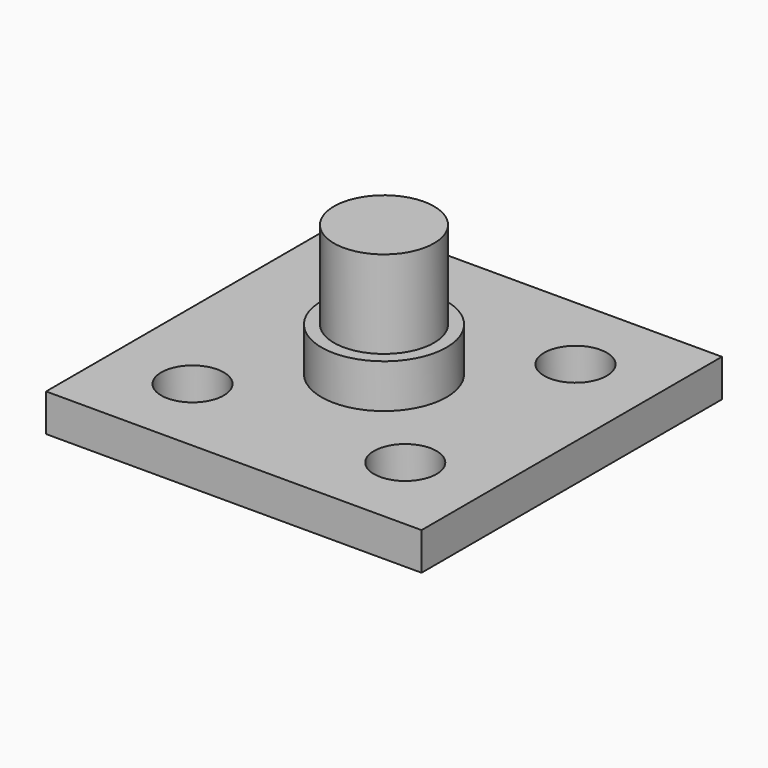
from build123d import *

# Parameters (mm, degrees)
F0_W     = 30
F0_H     = 30
F0_R     = 5
F1_DEPTH = 3
F0_R_2   = 4
F2_DEPTH = 6.5
F3_DEPTH = 13.5
F5_D     = 5


with BuildPart() as f1:
    # F0 (on Top) → F1 (new body)
    with BuildSketch(Plane.XY):
        Rectangle(F0_W, F0_H)
        Circle(F0_R, mode=Mode.SUBTRACT)
    extrude(amount=F1_DEPTH)

    # F0 (on Top) → F2 (join)
    with BuildSketch(Plane.XY):
        Circle(F0_R)
        Circle(F0_R_2, mode=Mode.SUBTRACT)
    extrude(amount=F2_DEPTH)

    # F0 (on Top) → F3 (join)
    with BuildSketch(Plane.XY):
        Circle(F0_R_2)
    extrude(amount=F3_DEPTH)

    # F5 (through all)
    with Locations(Plane.XY.offset(3)):
        with Locations((8.5, 8.5), (-8.5, 8.5), (-8.5, -8.5), (8.5, -8.5)):
            Hole(F5_D / 2)


with BuildPart() as f6_1:
    # F6: copy of F1
    add(f1.part.moved(Location((50, 0, 0))))


solid = f1.part
